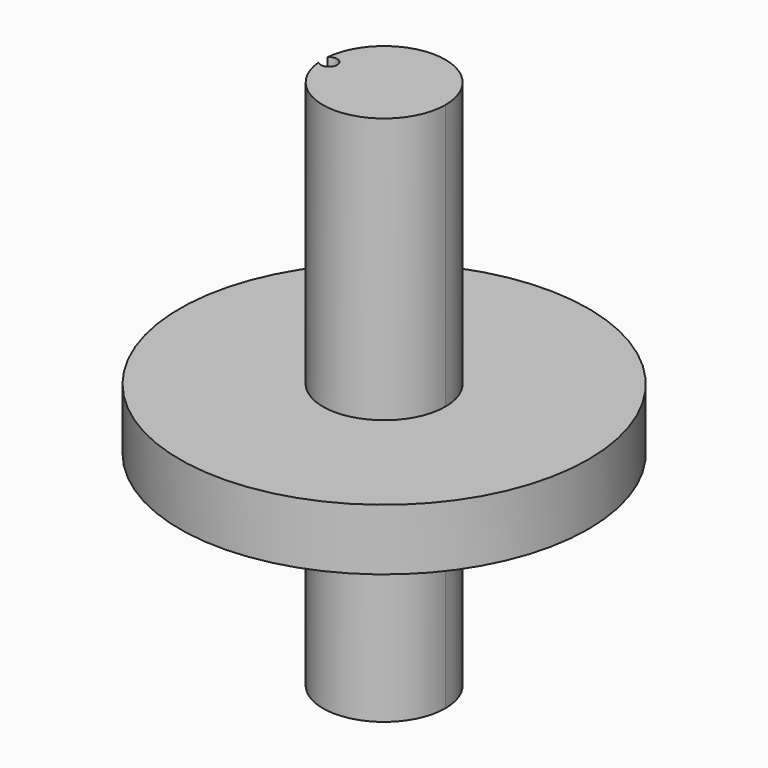
from build123d import *

# Parameters (mm, degrees)
F0_R     = 10
F1_DEPTH = 3
F0_R_2   = 1.65
F2_DEPTH = 16
F3_DEPTH = 10


with BuildPart() as f1:
    # F0 (on Top) → F1 (new body)
    with BuildSketch(Plane.XY):
        Circle(F0_R)
        with BuildLine():
            ThreePointArc((-2.987037, 0.278585), (0.139443, 2.996758), (3, 0))
            ThreePointArc((3, 0), (0.139443, -2.996758), (-2.987037, -0.278585))
            ThreePointArc((-2.987037, -0.278585), (-3.1, 0), (-2.987037, 0.278585))
        make_face(mode=Mode.SUBTRACT)
    extrude(amount=F1_DEPTH)

    # F0 (on Top) → F2 (join)
    with BuildSketch(Plane.XY):
        with BuildLine():
            ThreePointArc((-2.987037, -0.278585), (0.139443, -2.996758), (3, 0))
            ThreePointArc((3, 0), (0.139443, 2.996758), (-2.987037, 0.278585))
            ThreePointArc((-2.987037, 0.278585), (-2.549692, 0.370685), (-2.3, 0))
            ThreePointArc((-2.3, 0), (-2.549692, -0.370685), (-2.987037, -0.278585))
        make_face()
        Circle(F0_R_2, mode=Mode.SUBTRACT)
        Circle(F0_R_2)
    extrude(amount=F2_DEPTH)

    # F0 (on Top) → F3 (join)
    with BuildSketch(Plane.XY):
        with BuildLine():
            ThreePointArc((-2.987037, -0.278585), (0.139443, -2.996758), (3, 0))
            ThreePointArc((3, 0), (0.139443, 2.996758), (-2.987037, 0.278585))
            ThreePointArc((-2.987037, 0.278585), (-2.549692, 0.370685), (-2.3, 0))
            ThreePointArc((-2.3, 0), (-2.549692, -0.370685), (-2.987037, -0.278585))
        make_face()
        Circle(F0_R_2, mode=Mode.SUBTRACT)
        Circle(F0_R_2)
    extrude(amount=-F3_DEPTH)


solid = f1.part
